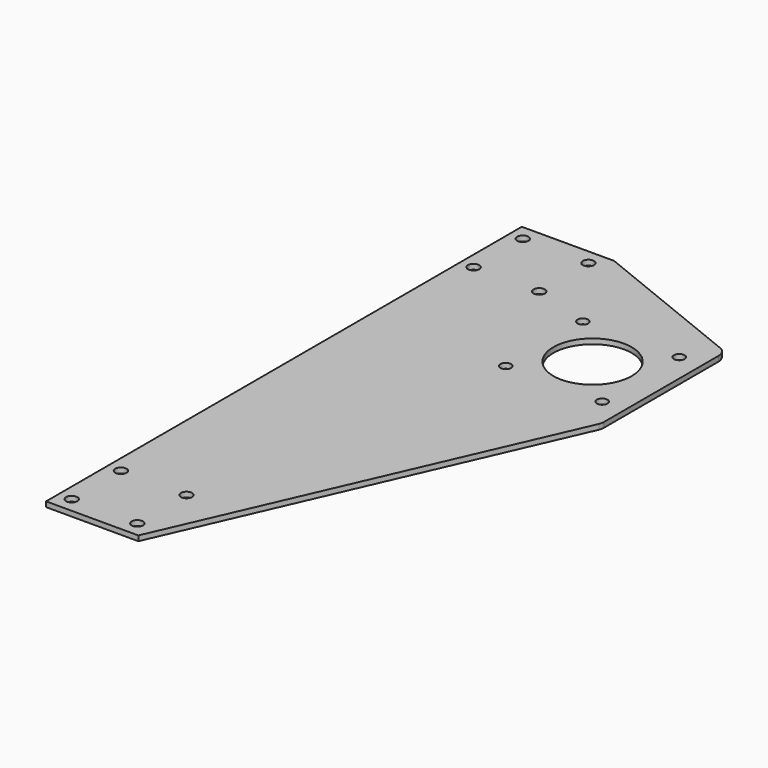
from build123d import *

# Parameters (mm, degrees)
F4_DEPTH = 2.5
F3_R     = 2.75
F1_R     = 19.1
F1_R_2   = 2.6
F2_R     = 2.75
F5_DEPTH = 2.5


with BuildPart() as f4:
    # F0 (on Top) → F4 (new body)
    with BuildSketch(Plane.XY):
        with BuildLine():
            Line((22.5, 70), (0, 70))
            Line((0, 70), (-22.5, 70))
            Line((-22.5, 70), (-22.5, 0))
            Line((-22.5, 0), (-22.5, -220))
            Line((-22.5, -220), (22.5, -220))
            Line((22.5, -220), (101.994993, -38.697527))
            ThreePointArc((101.994993, -38.697527), (102.372391, -37.519021), (102.5, -36.288159))
            Line((102.5, -36.288159), (102.5, 33.64075))
            ThreePointArc((102.5, 33.64075), (101.474038, 36.996185), (98.747019, 39.204104))
            Line((98.747019, 39.204104), (22.5, 70))
        make_face()
    extrude(amount=F4_DEPTH)

    # F3 (on Top) + F1 (on Top) + F2 (on Top) → F5 (cut)
    with BuildSketch(Plane.XY):
        with Locations((-16, -212.5)):
            Circle(F3_R)
        with Locations((-16, -182.5)):
            Circle(F3_R)
        with Locations((16, -212.5)):
            Circle(F3_R)
        with Locations((16, -182.5)):
            Circle(F3_R)
    with BuildSketch(Plane.XY):
        with Locations((68, 0)):
            Circle(F1_R)
        with Locations((44.5, 23.5)):
            Circle(F1_R_2)
        with Locations((44.5, -23.5)):
            Circle(F1_R_2)
        with Locations((91.5, 23.5)):
            Circle(F1_R_2)
        with Locations((91.5, -23.5)):
            Circle(F1_R_2)
    with BuildSketch(Plane.XY):
        with Locations((-16, 62.5)):
            Circle(F2_R)
        with Locations((-16, 32.5)):
            Circle(F2_R)
        with Locations((16, 62.5)):
            Circle(F2_R)
        with Locations((16, 32.5)):
            Circle(F2_R)
    extrude(amount=F5_DEPTH, mode=Mode.SUBTRACT)


solid = f4.part
